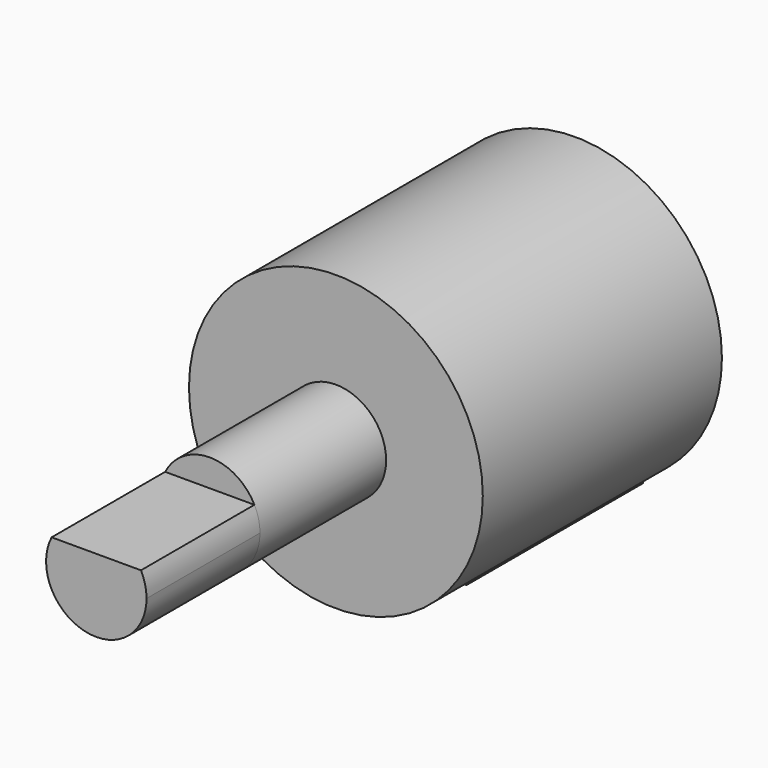
from build123d import *

# Parameters (mm, degrees)
F0_W     = 12
F0_H     = 5.5
F1_DEPTH = 19.5
F3_R     = 13
F4_DEPTH = 26.45
F5_R     = 4.445
F6_DEPTH = 13.95
F9_DEPTH = 12.55


with BuildPart() as f1:
    # F0 (on Front) → F1 (new body)
    with BuildSketch(Plane.XZ):
        Rectangle(F0_W, F0_H)
    extrude(amount=-F1_DEPTH)

    # F3 (on offset) → F4 (join, through all)
    with BuildSketch(Plane.XZ.offset(6.95)):
        with Locations((0, 9.3)):
            Circle(F3_R)
    extrude(amount=-F4_DEPTH)

    # F5 (on offset) → F6 (join)
    with BuildSketch(Plane.XZ.offset(6.95)):
        with Locations((0, 9.3)):
            Circle(F5_R)
    extrude(amount=F6_DEPTH)

    # F8 (on offset) → F9 (join)
    with BuildSketch(Plane.XZ.offset(20.9)):
        with BuildLine():
            ThreePointArc((0, 4.855), (3.1430896424, 6.1569103576), (4.445, 9.3))
            ThreePointArc((4.445, 9.3), (4.3199432386, 10.3469553071), (3.951809712, 11.335))
            Line((3.951809712, 11.335), (0, 11.335))
            Line((0, 11.335), (0, 4.855))
        make_face()
        with BuildLine():
            ThreePointArc((-3.951809712, 11.335), (-3.7949703556, 6.9856480389), (0, 4.855))
            Line((0, 4.855), (0, 11.335))
            Line((0, 11.335), (-3.951809712, 11.335))
        make_face()
    extrude(amount=F9_DEPTH)


solid = f1.part
